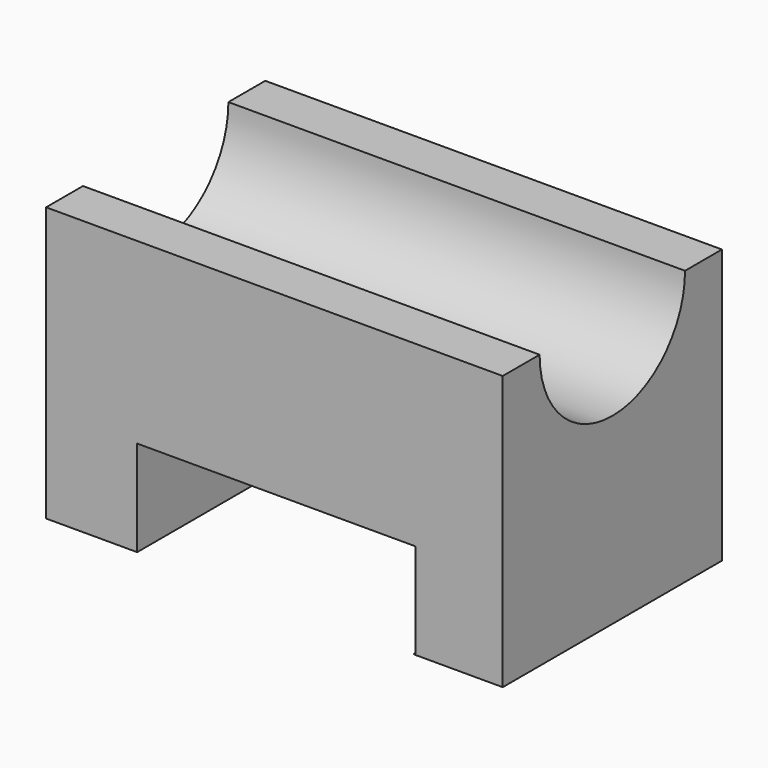
from build123d import *

# Parameters (mm, degrees)
F0_W     = 127
F0_H     = 76.2
F2_DEPTH = 76.2
F3_W     = 77.3548015118
F3_H     = 26.4147613198
F4_DEPTH = 88.138
F5_W     = 76.9804359138
F5_H     = 7.3428414762
F6_DEPTH = 93.98
F7_R     = 25.2764175419
F8_DEPTH = 142.494


with BuildPart() as f2:
    # F0 (on Front) → F2 (new body)
    with BuildSketch(Plane.XZ):
        with Locations((5.8183724284, 27.8661628202)):
            Rectangle(F0_W, F0_H)
    extrude(amount=F2_DEPTH)

    # F3 (on Front) → F4 (cut)
    with BuildSketch(Plane.XZ):
        with Locations((6.3353191733, 3.1585739926)):
            Rectangle(F3_W, F3_H)
    extrude(amount=F4_DEPTH, mode=Mode.SUBTRACT)

    # F5 (on face) → F6 (cut)
    with BuildSketch(Plane.XZ.offset(76.2)):
        with Locations((6.1481363744, -13.7202274054)):
            Rectangle(F5_W, F5_H)
    extrude(amount=-F6_DEPTH, mode=Mode.SUBTRACT)

    # F7 (on face) → F8 (cut)
    with BuildSketch(Plane.YZ.offset(69.3183724284)):
        with Locations((-38.1, 65.9661628202)):
            Circle(F7_R)
    extrude(amount=-F8_DEPTH, mode=Mode.SUBTRACT)


solid = f2.part
